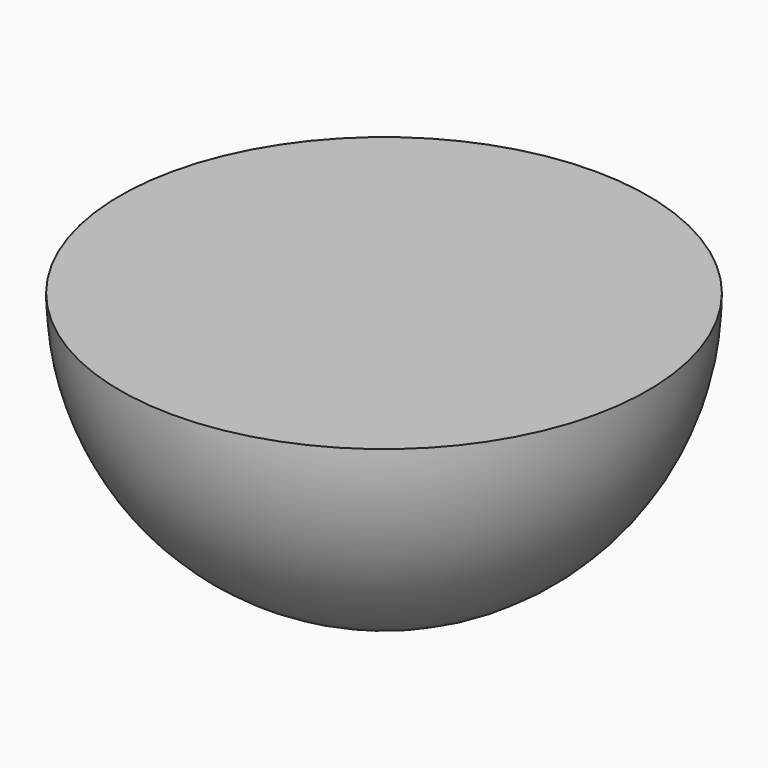
from build123d import *

# Parameters (mm, degrees)
F1_ANGLE = 180


with BuildPart() as f1:
    # F0 (on Top) → F1 (revolve)
    with BuildSketch(Plane.XY):
        with BuildLine():
            Line((0, 0), (0, 40))
            ThreePointArc((0, 40), (-40, 0), (0, -40))
            Line((0, -40), (0, 0))
        make_face()
    revolve(axis=Axis((0, -20, 0), (0, -1, 0)), revolution_arc=F1_ANGLE)


solid = f1.part
